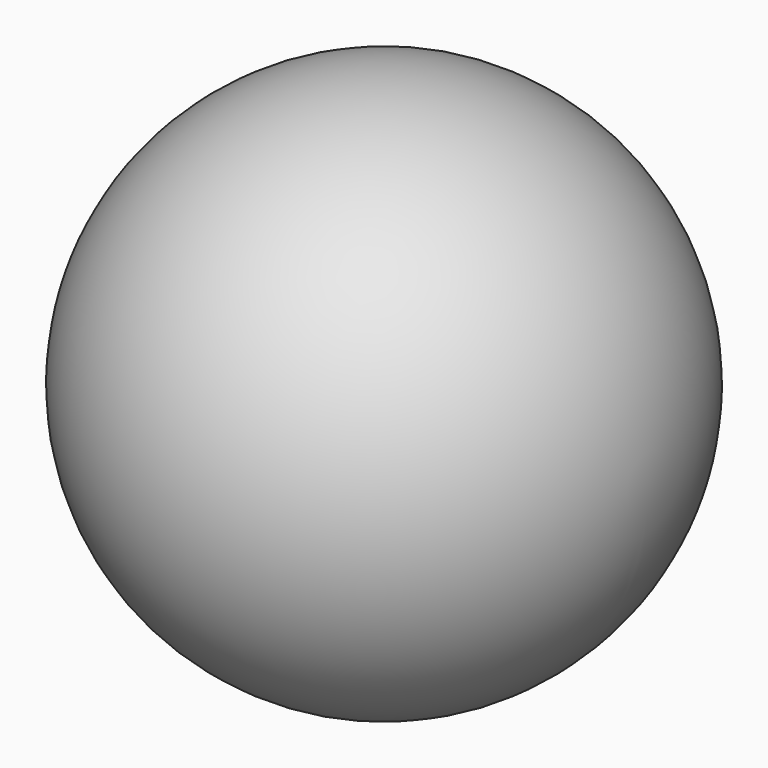
from build123d import *

# Parameters (mm, degrees)
F3_R     = 3.175
F4_DEPTH = 25.4


with BuildPart() as f2:
    # F0 (on Front) → F2 (revolve)
    with BuildSketch(Plane.XZ):
        with BuildLine():
            Line((9.525, 0), (-9.525, 0))
            ThreePointArc((-9.525, 0), (0, -9.525), (9.525, 0))
        make_face()
    revolve(axis=Axis((0, 0, 0), (1, 0, 0)))

    # F3 (on Top) → F4 (cut)
    with BuildSketch(Plane.XY):
        Circle(F3_R)
    extrude(amount=-F4_DEPTH, mode=Mode.SUBTRACT)


solid = f2.part
